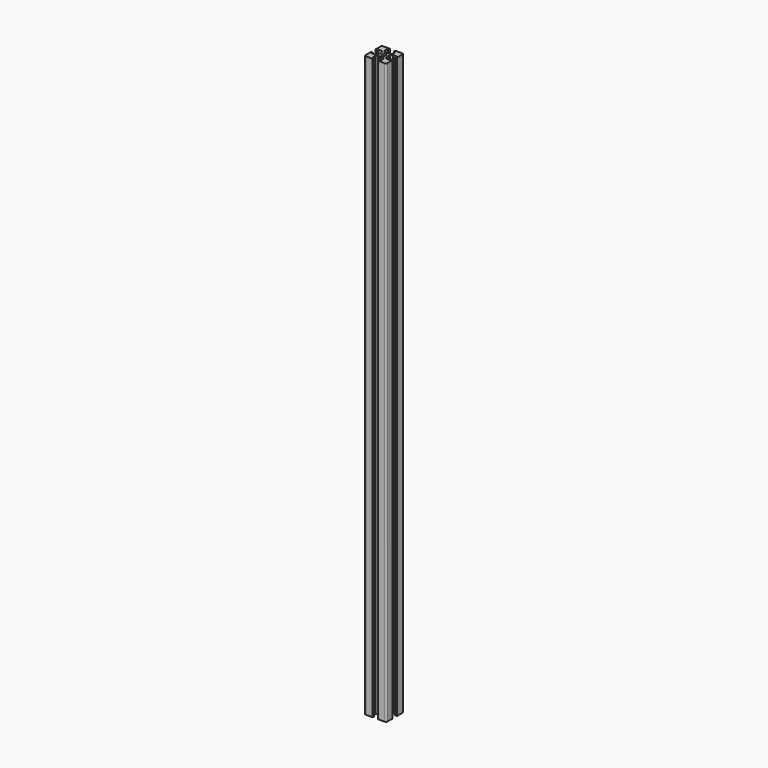
from build123d import *

# Parameters (mm, degrees)
F1_DEPTH = 400


with BuildPart() as f1:
    # F0 (on Top) → F1 (new body)
    with BuildSketch(Plane.XY):
        with BuildLine():
            ThreePointArc((-10.72619, 7.25), (-11.433297, 6.957107), (-11.72619, 6.25))
            Line((-11.72619, 6.25), (-11.72619, 1.75))
            ThreePointArc((-11.72619, 1.75), (-11.638322, 1.537868), (-11.42619, 1.45))
            Line((-11.42619, 1.45), (-10.62619, 1.45))
            Line((-10.62619, 1.45), (-10.62619, 2.6))
            Line((-10.62619, 2.6), (-8.02619, 2.6))
            Line((-8.02619, 2.6), (-7.02619, 1.6))
            Line((-7.02619, 1.6), (-7.02619, 0.269615))
            Line((-7.02619, 0.269615), (-6.72619, -0.25))
            Line((-6.72619, -0.25), (-7.02619, -0.769615))
            Line((-7.02619, -0.769615), (-7.02619, -2.1))
            Line((-7.02619, -2.1), (-8.02619, -3.1))
            Line((-8.02619, -3.1), (-10.62619, -3.1))
            Line((-10.62619, -3.1), (-10.62619, -1.95))
            Line((-10.62619, -1.95), (-11.42619, -1.95))
            ThreePointArc((-11.42619, -1.95), (-11.638322, -2.037868), (-11.72619, -2.25))
            Line((-11.72619, -2.25), (-11.72619, -6.75))
            ThreePointArc((-11.72619, -6.75), (-11.433297, -7.457107), (-10.72619, -7.75))
            Line((-10.72619, -7.75), (-6.22619, -7.75))
            ThreePointArc((-6.22619, -7.75), (-6.014058, -7.662132), (-5.92619, -7.45))
            Line((-5.92619, -7.45), (-5.92619, -6.65))
            Line((-5.92619, -6.65), (-7.07619, -6.65))
            Line((-7.07619, -6.65), (-7.07619, -4.05))
            Line((-7.07619, -4.05), (-6.07619, -3.05))
            Line((-6.07619, -3.05), (-4.745805, -3.05))
            Line((-4.745805, -3.05), (-4.22619, -2.75))
            Line((-4.22619, -2.75), (-3.706575, -3.05))
            Line((-3.706575, -3.05), (-2.37619, -3.05))
            Line((-2.37619, -3.05), (-1.37619, -4.05))
            Line((-1.37619, -4.05), (-1.37619, -6.65))
            Line((-1.37619, -6.65), (-2.52619, -6.65))
            Line((-2.52619, -6.65), (-2.52619, -7.45))
            ThreePointArc((-2.52619, -7.45), (-2.438322, -7.662132), (-2.22619, -7.75))
            Line((-2.22619, -7.75), (2.27381, -7.75))
            ThreePointArc((2.27381, -7.75), (2.980917, -7.457107), (3.27381, -6.75))
            Line((3.27381, -6.75), (3.27381, -2.25))
            ThreePointArc((3.27381, -2.25), (3.185942, -2.037868), (2.97381, -1.95))
            Line((2.97381, -1.95), (2.17381, -1.95))
            Line((2.17381, -1.95), (2.17381, -3.1))
            Line((2.17381, -3.1), (-0.42619, -3.1))
            Line((-0.42619, -3.1), (-1.42619, -2.1))
            Line((-1.42619, -2.1), (-1.42619, -0.769615))
            Line((-1.42619, -0.769615), (-1.72619, -0.25))
            Line((-1.72619, -0.25), (-1.42619, 0.269615))
            Line((-1.42619, 0.269615), (-1.42619, 1.6))
            Line((-1.42619, 1.6), (-0.42619, 2.6))
            Line((-0.42619, 2.6), (2.17381, 2.6))
            Line((2.17381, 2.6), (2.17381, 1.45))
            Line((2.17381, 1.45), (2.97381, 1.45))
            ThreePointArc((2.97381, 1.45), (3.185942, 1.537868), (3.27381, 1.75))
            Line((3.27381, 1.75), (3.27381, 6.25))
            ThreePointArc((3.27381, 6.25), (2.980917, 6.957107), (2.27381, 7.25))
            Line((2.27381, 7.25), (-2.22619, 7.25))
            ThreePointArc((-2.22619, 7.25), (-2.438322, 7.162132), (-2.52619, 6.95))
            Line((-2.52619, 6.95), (-2.52619, 6.15))
            Line((-2.52619, 6.15), (-1.37619, 6.15))
            Line((-1.37619, 6.15), (-1.37619, 3.55))
            Line((-1.37619, 3.55), (-2.37619, 2.55))
            Line((-2.37619, 2.55), (-3.706575, 2.55))
            Line((-3.706575, 2.55), (-4.22619, 2.25))
            Line((-4.22619, 2.25), (-4.745805, 2.55))
            Line((-4.745805, 2.55), (-6.07619, 2.55))
            Line((-6.07619, 2.55), (-7.07619, 3.55))
            Line((-7.07619, 3.55), (-7.07619, 6.15))
            Line((-7.07619, 6.15), (-5.92619, 6.15))
            Line((-5.92619, 6.15), (-5.92619, 6.95))
            ThreePointArc((-5.92619, 6.95), (-6.014058, 7.162132), (-6.22619, 7.25))
            Line((-6.22619, 7.25), (-10.72619, 7.25))
        make_face()
        with BuildLine():
            ThreePointArc((-4.22619, -1.5), (-5.110073, -1.133883), (-5.47619, -0.25))
            ThreePointArc((-5.47619, -0.25), (-5.110073, 0.633883), (-4.22619, 1))
            ThreePointArc((-4.22619, 1), (-3.342307, 0.633883), (-2.97619, -0.25))
            ThreePointArc((-2.97619, -0.25), (-3.342307, -1.133883), (-4.22619, -1.5))
        make_face(mode=Mode.SUBTRACT)
    extrude(amount=F1_DEPTH)


solid = f1.part
